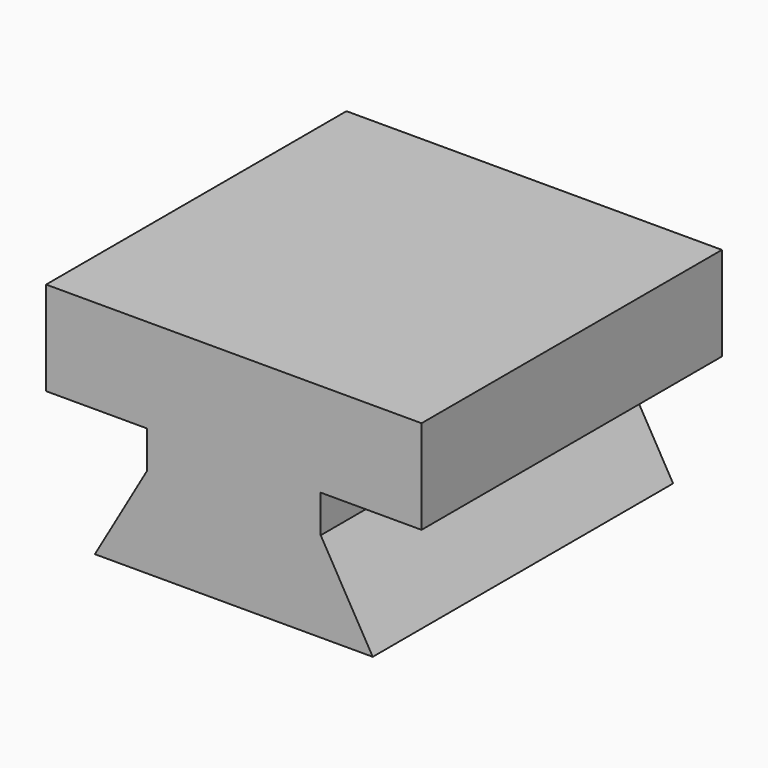
from build123d import *

# Parameters (mm, degrees)
F1_DEPTH      = 12.7
F1_DEPTH_BACK = 12.7
F2_W          = 11.756946
F2_H          = 25.4
F3_DEPTH      = 2.54
F4_W          = 25.4
F4_H          = 25.4
F5_DEPTH      = 6.35


with BuildPart() as f1:
    # F0 (on Front) → F1 (new body, two sides)
    with BuildSketch(Plane.XZ) as f1_sk:
        Polygon((-5.878473, 6.096), (-9.398, 0), (9.398, 0), (5.878473, 6.096), align=None)
    extrude(amount=F1_DEPTH)
    extrude(f1_sk.sketch, amount=-F1_DEPTH_BACK)

    # F2 (on face) → F3 (join)
    with BuildSketch(Plane.XY.offset(6.096)):
        Rectangle(F2_W, F2_H)
    extrude(amount=F3_DEPTH)

    # F4 (on face) → F5 (join)
    with BuildSketch(Plane.XY.offset(8.636)):
        Rectangle(F4_W, F4_H)
    extrude(amount=F5_DEPTH)


solid = f1.part
